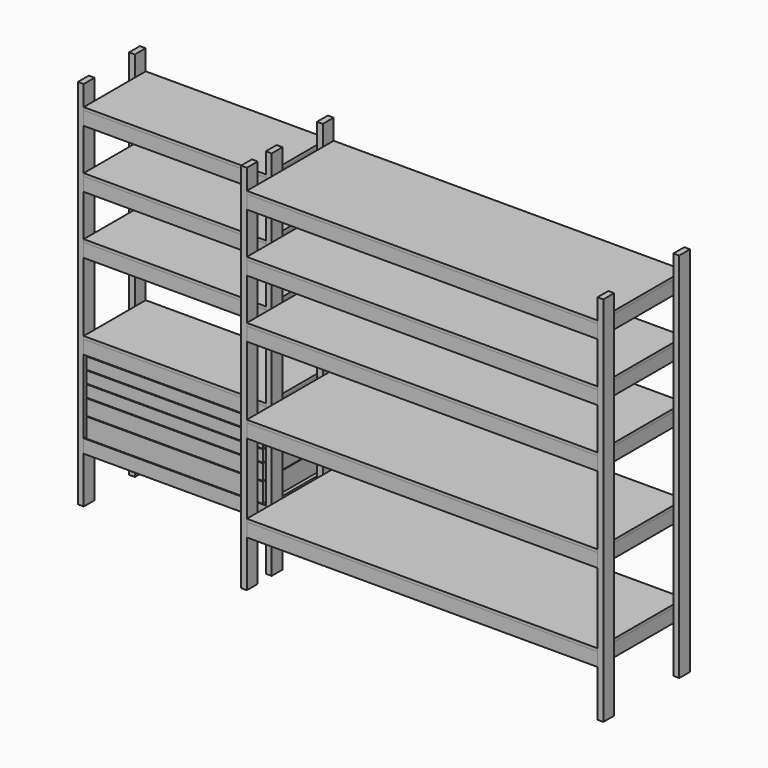
from build123d import *

# Parameters (mm, degrees)
F0_W      = 38.1
F0_H      = 88.9
F1_DEPTH  = 2438.4
F3_W      = 38.1
F3_H      = 88.9
F4_DEPTH  = 1193.8
F5_W      = 38.1
F5_H      = 88.9
F6_DEPTH  = 2298.7
F7_W      = 38.1
F7_H      = 88.9
F8_DEPTH  = 431.8
F9_W      = 38.1
F9_H      = 88.9
F10_DEPTH = 635
F11_W     = 508
F11_H     = 19.05
F12_DEPTH = 1193.8
F13_W     = 711.2
F13_H     = 19.05
F14_DEPTH = 2298.7
F15_W     = 12.7
F15_H     = 127
F16_DEPTH = 508
F15_H_2   = 101.6
F15_H_3   = 76.2
F17_W     = 12.7
F17_H     = 127
F18_DEPTH = 1130.3
F17_H_2   = 101.6
F17_H_3   = 76.2
F19_W     = 1130.3
F19_H     = 19.05
F20_DEPTH = 482.6


with BuildPart() as f1:
    # F0 (on Top) → F1 (new body)
    with BuildSketch(Plane.XY):
        with Locations((19.05, -44.45)):
            Rectangle(F0_W, F0_H)
    extrude(amount=F1_DEPTH)


with BuildPart() as f1b:
    # F0 (on Top) → F1, piece 2 (new body)
    with BuildSketch(Plane.XY):
        with Locations((19.05, -463.55)):
            Rectangle(F0_W, F0_H)
    extrude(amount=F1_DEPTH)


with BuildPart() as f1c:
    # F0 (on Top) → F1, piece 3 (new body)
    with BuildSketch(Plane.XY):
        with Locations((1250.95, -44.45)):
            Rectangle(F0_W, F0_H)
    extrude(amount=F1_DEPTH)


with BuildPart() as f1d:
    # F0 (on Top) → F1, piece 4 (new body)
    with BuildSketch(Plane.XY):
        with Locations((1250.95, -463.55)):
            Rectangle(F0_W, F0_H)
    extrude(amount=F1_DEPTH)


with BuildPart() as f1e:
    # F0 (on Top) → F1, piece 5 (new body)
    with BuildSketch(Plane.XY):
        with Locations((1250.95, -666.75)):
            Rectangle(F0_W, F0_H)
    extrude(amount=F1_DEPTH)


with BuildPart() as f1f:
    # F0 (on Top) → F1, piece 6 (new body)
    with BuildSketch(Plane.XY):
        with Locations((3587.75, -44.45)):
            Rectangle(F0_W, F0_H)
    extrude(amount=F1_DEPTH)


with BuildPart() as f1g:
    # F0 (on Top) → F1, piece 7 (new body)
    with BuildSketch(Plane.XY):
        with Locations((3587.75, -666.75)):
            Rectangle(F0_W, F0_H)
    extrude(amount=F1_DEPTH)


with BuildPart() as f4:
    # F3 (on face) → F4 (new body, through all)
    with BuildSketch(Plane.YZ.offset(38.1)):
        with Locations((-19.05, 2241.55)):
            Rectangle(F3_W, F3_H)
    extrude(amount=F4_DEPTH)


with BuildPart() as f4b:
    # F3 (on face) → F4, piece 2 (new body, through all)
    with BuildSketch(Plane.YZ.offset(38.1)):
        with Locations((-19.05, 1860.55)):
            Rectangle(F3_W, F3_H)
    extrude(amount=F4_DEPTH)


with BuildPart() as f4c:
    # F3 (on face) → F4, piece 3 (new body, through all)
    with BuildSketch(Plane.YZ.offset(38.1)):
        with Locations((-19.05, 1479.55)):
            Rectangle(F3_W, F3_H)
    extrude(amount=F4_DEPTH)


with BuildPart() as f4d:
    # F3 (on face) → F4, piece 4 (new body, through all)
    with BuildSketch(Plane.YZ.offset(38.1)):
        with Locations((-19.05, 920.75)):
            Rectangle(F3_W, F3_H)
    extrude(amount=F4_DEPTH)


with BuildPart() as f4e:
    # F3 (on face) → F4, piece 5 (new body, through all)
    with BuildSketch(Plane.YZ.offset(38.1)):
        with Locations((-19.05, 349.25)):
            Rectangle(F3_W, F3_H)
    extrude(amount=F4_DEPTH)


with BuildPart() as f4f:
    # F3 (on face) → F4, piece 6 (new body, through all)
    with BuildSketch(Plane.YZ.offset(38.1)):
        with Locations((-488.95, 2241.55)):
            Rectangle(F3_W, F3_H)
    extrude(amount=F4_DEPTH)


with BuildPart() as f4g:
    # F3 (on face) → F4, piece 7 (new body, through all)
    with BuildSketch(Plane.YZ.offset(38.1)):
        with Locations((-488.95, 1860.55)):
            Rectangle(F3_W, F3_H)
    extrude(amount=F4_DEPTH)


with BuildPart() as f4h:
    # F3 (on face) → F4, piece 8 (new body, through all)
    with BuildSketch(Plane.YZ.offset(38.1)):
        with Locations((-488.95, 1479.55)):
            Rectangle(F3_W, F3_H)
    extrude(amount=F4_DEPTH)


with BuildPart() as f4i:
    # F3 (on face) → F4, piece 9 (new body, through all)
    with BuildSketch(Plane.YZ.offset(38.1)):
        with Locations((-488.95, 920.75)):
            Rectangle(F3_W, F3_H)
    extrude(amount=F4_DEPTH)


with BuildPart() as f4j:
    # F3 (on face) → F4, piece 10 (new body, through all)
    with BuildSketch(Plane.YZ.offset(38.1)):
        with Locations((-488.95, 349.25)):
            Rectangle(F3_W, F3_H)
    extrude(amount=F4_DEPTH)


with BuildPart() as f6:
    # F5 (on face) → F6 (new body, through all)
    with BuildSketch(Plane.YZ.offset(1270)):
        with Locations((-19.05, 2241.55)):
            Rectangle(F5_W, F5_H)
    extrude(amount=F6_DEPTH)


with BuildPart() as f6b:
    # F5 (on face) → F6, piece 2 (new body, through all)
    with BuildSketch(Plane.YZ.offset(1270)):
        with Locations((-19.05, 1860.55)):
            Rectangle(F5_W, F5_H)
    extrude(amount=F6_DEPTH)


with BuildPart() as f6c:
    # F5 (on face) → F6, piece 3 (new body, through all)
    with BuildSketch(Plane.YZ.offset(1270)):
        with Locations((-19.05, 1479.55)):
            Rectangle(F5_W, F5_H)
    extrude(amount=F6_DEPTH)


with BuildPart() as f6d:
    # F5 (on face) → F6, piece 4 (new body, through all)
    with BuildSketch(Plane.YZ.offset(1270)):
        with Locations((-19.05, 920.75)):
            Rectangle(F5_W, F5_H)
    extrude(amount=F6_DEPTH)


with BuildPart() as f6e:
    # F5 (on face) → F6, piece 5 (new body, through all)
    with BuildSketch(Plane.YZ.offset(1270)):
        with Locations((-19.05, 349.25)):
            Rectangle(F5_W, F5_H)
    extrude(amount=F6_DEPTH)


with BuildPart() as f6f:
    # F5 (on face) → F6, piece 6 (new body, through all)
    with BuildSketch(Plane.YZ.offset(1270)):
        with Locations((-692.15, 2241.55)):
            Rectangle(F5_W, F5_H)
    extrude(amount=F6_DEPTH)


with BuildPart() as f6g:
    # F5 (on face) → F6, piece 7 (new body, through all)
    with BuildSketch(Plane.YZ.offset(1270)):
        with Locations((-692.15, 1860.55)):
            Rectangle(F5_W, F5_H)
    extrude(amount=F6_DEPTH)


with BuildPart() as f6h:
    # F5 (on face) → F6, piece 8 (new body, through all)
    with BuildSketch(Plane.YZ.offset(1270)):
        with Locations((-692.15, 1479.55)):
            Rectangle(F5_W, F5_H)
    extrude(amount=F6_DEPTH)


with BuildPart() as f6i:
    # F5 (on face) → F6, piece 9 (new body, through all)
    with BuildSketch(Plane.YZ.offset(1270)):
        with Locations((-692.15, 920.75)):
            Rectangle(F5_W, F5_H)
    extrude(amount=F6_DEPTH)


with BuildPart() as f6j:
    # F5 (on face) → F6, piece 10 (new body, through all)
    with BuildSketch(Plane.YZ.offset(1270)):
        with Locations((-692.15, 349.25)):
            Rectangle(F5_W, F5_H)
    extrude(amount=F6_DEPTH)


with BuildPart() as f8:
    # F7 (on face) → F8 (new body, through all)
    with BuildSketch(Plane.XZ.offset(38.1)):
        with Locations((57.15, 349.25)):
            Rectangle(F7_W, F7_H)
    extrude(amount=F8_DEPTH)


with BuildPart() as f8b:
    # F7 (on face) → F8, piece 2 (new body, through all)
    with BuildSketch(Plane.XZ.offset(38.1)):
        with Locations((57.15, 920.75)):
            Rectangle(F7_W, F7_H)
    extrude(amount=F8_DEPTH)


with BuildPart() as f8c:
    # F7 (on face) → F8, piece 3 (new body, through all)
    with BuildSketch(Plane.XZ.offset(38.1)):
        with Locations((57.15, 1479.55)):
            Rectangle(F7_W, F7_H)
    extrude(amount=F8_DEPTH)


with BuildPart() as f8d:
    # F7 (on face) → F8, piece 4 (new body, through all)
    with BuildSketch(Plane.XZ.offset(38.1)):
        with Locations((57.15, 1860.55)):
            Rectangle(F7_W, F7_H)
    extrude(amount=F8_DEPTH)


with BuildPart() as f8e:
    # F7 (on face) → F8, piece 5 (new body, through all)
    with BuildSketch(Plane.XZ.offset(38.1)):
        with Locations((57.15, 2241.55)):
            Rectangle(F7_W, F7_H)
    extrude(amount=F8_DEPTH)


with BuildPart() as f8f:
    # F7 (on face) → F8, piece 6 (new body, through all)
    with BuildSketch(Plane.XZ.offset(38.1)):
        with Locations((1212.85, 2241.55)):
            Rectangle(F7_W, F7_H)
    extrude(amount=F8_DEPTH)


with BuildPart() as f8g:
    # F7 (on face) → F8, piece 7 (new body, through all)
    with BuildSketch(Plane.XZ.offset(38.1)):
        with Locations((1212.85, 1860.55)):
            Rectangle(F7_W, F7_H)
    extrude(amount=F8_DEPTH)


with BuildPart() as f8h:
    # F7 (on face) → F8, piece 8 (new body, through all)
    with BuildSketch(Plane.XZ.offset(38.1)):
        with Locations((1212.85, 1479.55)):
            Rectangle(F7_W, F7_H)
    extrude(amount=F8_DEPTH)


with BuildPart() as f8i:
    # F7 (on face) → F8, piece 9 (new body, through all)
    with BuildSketch(Plane.XZ.offset(38.1)):
        with Locations((1212.85, 920.75)):
            Rectangle(F7_W, F7_H)
    extrude(amount=F8_DEPTH)


with BuildPart() as f8j:
    # F7 (on face) → F8, piece 10 (new body, through all)
    with BuildSketch(Plane.XZ.offset(38.1)):
        with Locations((1212.85, 349.25)):
            Rectangle(F7_W, F7_H)
    extrude(amount=F8_DEPTH)


with BuildPart() as f10:
    # F9 (on face) → F10 (new body, through all)
    with BuildSketch(Plane.XZ.offset(38.1)):
        with Locations((1289.05, 2241.55)):
            Rectangle(F9_W, F9_H)
    extrude(amount=F10_DEPTH)


with BuildPart() as f10b:
    # F9 (on face) → F10, piece 2 (new body, through all)
    with BuildSketch(Plane.XZ.offset(38.1)):
        with Locations((3549.65, 2241.55)):
            Rectangle(F9_W, F9_H)
    extrude(amount=F10_DEPTH)


with BuildPart() as f10c:
    # F9 (on face) → F10, piece 3 (new body, through all)
    with BuildSketch(Plane.XZ.offset(38.1)):
        with Locations((1289.05, 1860.55)):
            Rectangle(F9_W, F9_H)
    extrude(amount=F10_DEPTH)


with BuildPart() as f10d:
    # F9 (on face) → F10, piece 4 (new body, through all)
    with BuildSketch(Plane.XZ.offset(38.1)):
        with Locations((1289.05, 1479.55)):
            Rectangle(F9_W, F9_H)
    extrude(amount=F10_DEPTH)


with BuildPart() as f10e:
    # F9 (on face) → F10, piece 5 (new body, through all)
    with BuildSketch(Plane.XZ.offset(38.1)):
        with Locations((1289.05, 920.75)):
            Rectangle(F9_W, F9_H)
    extrude(amount=F10_DEPTH)


with BuildPart() as f10f:
    # F9 (on face) → F10, piece 6 (new body, through all)
    with BuildSketch(Plane.XZ.offset(38.1)):
        with Locations((1289.05, 349.25)):
            Rectangle(F9_W, F9_H)
    extrude(amount=F10_DEPTH)


with BuildPart() as f10g:
    # F9 (on face) → F10, piece 7 (new body, through all)
    with BuildSketch(Plane.XZ.offset(38.1)):
        with Locations((3549.65, 1860.55)):
            Rectangle(F9_W, F9_H)
    extrude(amount=F10_DEPTH)


with BuildPart() as f10h:
    # F9 (on face) → F10, piece 8 (new body, through all)
    with BuildSketch(Plane.XZ.offset(38.1)):
        with Locations((3549.65, 1479.55)):
            Rectangle(F9_W, F9_H)
    extrude(amount=F10_DEPTH)


with BuildPart() as f10i:
    # F9 (on face) → F10, piece 9 (new body, through all)
    with BuildSketch(Plane.XZ.offset(38.1)):
        with Locations((3549.65, 920.75)):
            Rectangle(F9_W, F9_H)
    extrude(amount=F10_DEPTH)


with BuildPart() as f10j:
    # F9 (on face) → F10, piece 10 (new body, through all)
    with BuildSketch(Plane.XZ.offset(38.1)):
        with Locations((3549.65, 349.25)):
            Rectangle(F9_W, F9_H)
    extrude(amount=F10_DEPTH)


with BuildPart() as f12:
    # F11 (on face) → F12 (new body, through all)
    with BuildSketch(Plane.YZ.offset(38.1)):
        with Locations((-254, 1914.525)):
            Rectangle(F11_W, F11_H)
    extrude(amount=F12_DEPTH)


with BuildPart() as f12b:
    # F11 (on face) → F12, piece 2 (new body, through all)
    with BuildSketch(Plane.YZ.offset(38.1)):
        with Locations((-254, 2295.525)):
            Rectangle(F11_W, F11_H)
    extrude(amount=F12_DEPTH)


with BuildPart() as f12c:
    # F11 (on face) → F12, piece 3 (new body, through all)
    with BuildSketch(Plane.YZ.offset(38.1)):
        with Locations((-254, 1533.525)):
            Rectangle(F11_W, F11_H)
    extrude(amount=F12_DEPTH)


with BuildPart() as f12d:
    # F11 (on face) → F12, piece 4 (new body, through all)
    with BuildSketch(Plane.YZ.offset(38.1)):
        with Locations((-254, 974.725)):
            Rectangle(F11_W, F11_H)
    extrude(amount=F12_DEPTH)


with BuildPart() as f14:
    # F13 (on face) → F14 (new body, through all)
    with BuildSketch(Plane.YZ.offset(1270)):
        with Locations((-355.6, 1914.525)):
            Rectangle(F13_W, F13_H)
    extrude(amount=F14_DEPTH)


with BuildPart() as f14b:
    # F13 (on face) → F14, piece 2 (new body, through all)
    with BuildSketch(Plane.YZ.offset(1270)):
        with Locations((-355.6, 2295.525)):
            Rectangle(F13_W, F13_H)
    extrude(amount=F14_DEPTH)


with BuildPart() as f14c:
    # F13 (on face) → F14, piece 3 (new body, through all)
    with BuildSketch(Plane.YZ.offset(1270)):
        with Locations((-355.6, 1533.525)):
            Rectangle(F13_W, F13_H)
    extrude(amount=F14_DEPTH)


with BuildPart() as f14d:
    # F13 (on face) → F14, piece 4 (new body, through all)
    with BuildSketch(Plane.YZ.offset(1270)):
        with Locations((-355.6, 974.725)):
            Rectangle(F13_W, F13_H)
    extrude(amount=F14_DEPTH)


with BuildPart() as f14e:
    # F13 (on face) → F14, piece 5 (new body, through all)
    with BuildSketch(Plane.YZ.offset(1270)):
        with Locations((-355.6, 403.225)):
            Rectangle(F13_W, F13_H)
    extrude(amount=F14_DEPTH)


with BuildPart() as f16:
    # F15 (on Front) → F16 (new body, through all)
    with BuildSketch(Plane.XZ):
        with Locations((63.5, 461.4333333333)):
            Rectangle(F15_W, F15_H)
    extrude(amount=F16_DEPTH)



with BuildPart() as f16b:
    # F15 (on Front) → F16, piece 2 (new body, through all)
    with BuildSketch(Plane.XZ):
        with Locations((63.5, 579.9666666667)):
            Rectangle(F15_W, F15_H_2)
    extrude(amount=F16_DEPTH)



with BuildPart() as f16c:
    # F15 (on Front) → F16, piece 3 (new body, through all)
    with BuildSketch(Plane.XZ):
        with Locations((63.5, 673.1)):
            Rectangle(F15_W, F15_H_3)
    extrude(amount=F16_DEPTH)



with BuildPart() as f16d:
    # F15 (on Front) → F16, piece 4 (new body, through all)
    with BuildSketch(Plane.XZ):
        with Locations((63.5, 753.5333333333)):
            Rectangle(F15_W, F15_H_3)
    extrude(amount=F16_DEPTH)



with BuildPart() as f16e:
    # F15 (on Front) → F16, piece 5 (new body, through all)
    with BuildSketch(Plane.XZ):
        with Locations((63.5, 833.9666666667)):
            Rectangle(F15_W, F15_H_3)
    extrude(amount=F16_DEPTH)



with BuildPart() as f16f:
    # F15 (on Front) → F16, piece 6 (new body, through all)
    with BuildSketch(Plane.XZ):
        with Locations((1206.5, 833.9666666667)):
            Rectangle(F15_W, F15_H_3)
    extrude(amount=F16_DEPTH)


with BuildPart() as f16g:
    # F15 (on Front) → F16, piece 7 (new body, through all)
    with BuildSketch(Plane.XZ):
        with Locations((1206.5, 753.5333333333)):
            Rectangle(F15_W, F15_H_3)
    extrude(amount=F16_DEPTH)


with BuildPart() as f16h:
    # F15 (on Front) → F16, piece 8 (new body, through all)
    with BuildSketch(Plane.XZ):
        with Locations((1206.5, 673.1)):
            Rectangle(F15_W, F15_H_3)
    extrude(amount=F16_DEPTH)


with BuildPart() as f16i:
    # F15 (on Front) → F16, piece 9 (new body, through all)
    with BuildSketch(Plane.XZ):
        with Locations((1206.5, 579.9666666667)):
            Rectangle(F15_W, F15_H_2)
    extrude(amount=F16_DEPTH)


with BuildPart() as f16j:
    # F15 (on Front) → F16, piece 10 (new body, through all)
    with BuildSketch(Plane.XZ):
        with Locations((1206.5, 461.4333333333)):
            Rectangle(F15_W, F15_H)
    extrude(amount=F16_DEPTH)


with BuildPart() as f18:
    # F17 (on face) → F18 (new body, through all)
    with BuildSketch(Plane.YZ.offset(69.85)):
        with Locations((-6.35, 461.4333333333)):
            Rectangle(F17_W, F17_H)
    extrude(amount=F18_DEPTH)


with BuildPart() as f18b:
    # F17 (on face) → F18, piece 2 (new body, through all)
    with BuildSketch(Plane.YZ.offset(69.85)):
        with Locations((-6.35, 579.9666666667)):
            Rectangle(F17_W, F17_H_2)
    extrude(amount=F18_DEPTH)


with BuildPart() as f18c:
    # F17 (on face) → F18, piece 3 (new body, through all)
    with BuildSketch(Plane.YZ.offset(69.85)):
        with Locations((-6.35, 673.1)):
            Rectangle(F17_W, F17_H_3)
    extrude(amount=F18_DEPTH)


with BuildPart() as f18d:
    # F17 (on face) → F18, piece 4 (new body, through all)
    with BuildSketch(Plane.YZ.offset(69.85)):
        with Locations((-6.35, 753.5333333333)):
            Rectangle(F17_W, F17_H_3)
    extrude(amount=F18_DEPTH)


with BuildPart() as f18e:
    # F17 (on face) → F18, piece 5 (new body, through all)
    with BuildSketch(Plane.YZ.offset(69.85)):
        with Locations((-6.35, 833.9666666667)):
            Rectangle(F17_W, F17_H_3)
    extrude(amount=F18_DEPTH)


with BuildPart() as f18f:
    # F17 (on face) → F18, piece 6 (new body, through all)
    with BuildSketch(Plane.YZ.offset(69.85)):
        with Locations((-501.65, 461.4333333333)):
            Rectangle(F17_W, F17_H)
    extrude(amount=F18_DEPTH)


with BuildPart() as f18g:
    # F17 (on face) → F18, piece 7 (new body, through all)
    with BuildSketch(Plane.YZ.offset(69.85)):
        with Locations((-501.65, 579.9666666667)):
            Rectangle(F17_W, F17_H_2)
    extrude(amount=F18_DEPTH)


with BuildPart() as f18h:
    # F17 (on face) → F18, piece 8 (new body, through all)
    with BuildSketch(Plane.YZ.offset(69.85)):
        with Locations((-501.65, 673.1)):
            Rectangle(F17_W, F17_H_3)
    extrude(amount=F18_DEPTH)


with BuildPart() as f18i:
    # F17 (on face) → F18, piece 9 (new body, through all)
    with BuildSketch(Plane.YZ.offset(69.85)):
        with Locations((-501.65, 753.5333333333)):
            Rectangle(F17_W, F17_H_3)
    extrude(amount=F18_DEPTH)


with BuildPart() as f18j:
    # F17 (on face) → F18, piece 10 (new body, through all)
    with BuildSketch(Plane.YZ.offset(69.85)):
        with Locations((-501.65, 833.9666666667)):
            Rectangle(F17_W, F17_H_3)
    extrude(amount=F18_DEPTH)


with BuildPart() as f16_1:
    add(f16.part)

    add(f16j.part)  # F20 merges F16j

    add(f18.part)  # F20 merges F18

    add(f18f.part)  # F20 merges F18f
    # F19 (on face) → F20 (join, through all)
    with BuildSketch(Plane.XZ.offset(12.7)):
        with Locations((635, 407.4583333333)):
            Rectangle(F19_W, F19_H)
    extrude(amount=F20_DEPTH)


with BuildPart() as f16b_1:
    add(f16b.part)

    add(f16i.part)  # F20#2 merges F16i

    add(f18b.part)  # F20#2 merges F18b

    add(f18g.part)  # F20#2 merges F18g
    # F19 (on face) → F20, piece 2 (join, through all)
    with BuildSketch(Plane.XZ.offset(12.7)):
        with Locations((635, 538.6916666667)):
            Rectangle(F19_W, F19_H)
    extrude(amount=F20_DEPTH)


with BuildPart() as f16c_1:
    add(f16c.part)

    add(f16h.part)  # F20#3 merges F16h

    add(f18c.part)  # F20#3 merges F18c

    add(f18h.part)  # F20#3 merges F18h
    # F19 (on face) → F20, piece 3 (join, through all)
    with BuildSketch(Plane.XZ.offset(12.7)):
        with Locations((635, 644.525)):
            Rectangle(F19_W, F19_H)
    extrude(amount=F20_DEPTH)


with BuildPart() as f16d_1:
    add(f16d.part)

    add(f16g.part)  # F20#4 merges F16g

    add(f18d.part)  # F20#4 merges F18d

    add(f18i.part)  # F20#4 merges F18i
    # F19 (on face) → F20, piece 4 (join, through all)
    with BuildSketch(Plane.XZ.offset(12.7)):
        with Locations((635, 724.9583333333)):
            Rectangle(F19_W, F19_H)
    extrude(amount=F20_DEPTH)


with BuildPart() as f16e_1:
    add(f16e.part)

    add(f16f.part)  # F20#5 merges F16f

    add(f18e.part)  # F20#5 merges F18e

    add(f18j.part)  # F20#5 merges F18j
    # F19 (on face) → F20, piece 5 (join, through all)
    with BuildSketch(Plane.XZ.offset(12.7)):
        with Locations((635, 805.3916666667)):
            Rectangle(F19_W, F19_H)
    extrude(amount=F20_DEPTH)


solid = Compound([f1.part, f1b.part, f1c.part, f1d.part, f1e.part, f1f.part, f1g.part, f4.part, f4b.part, f4c.part, f4d.part, f4e.part, f4f.part, f4g.part, f4h.part, f4i.part, f4j.part, f6.part, f6b.part, f6c.part, f6d.part, f6e.part, f6f.part, f6g.part, f6h.part, f6i.part, f6j.part, f8.part, f8b.part, f8c.part, f8d.part, f8e.part, f8f.part, f8g.part, f8h.part, f8i.part, f8j.part, f10.part, f10b.part, f10c.part, f10d.part, f10e.part, f10f.part, f10g.part, f10h.part, f10i.part, f10j.part, f12.part, f12b.part, f12c.part, f12d.part, f14.part, f14b.part, f14c.part, f14d.part, f14e.part, f16_1.part, f16b_1.part, f16c_1.part, f16d_1.part, f16e_1.part])
